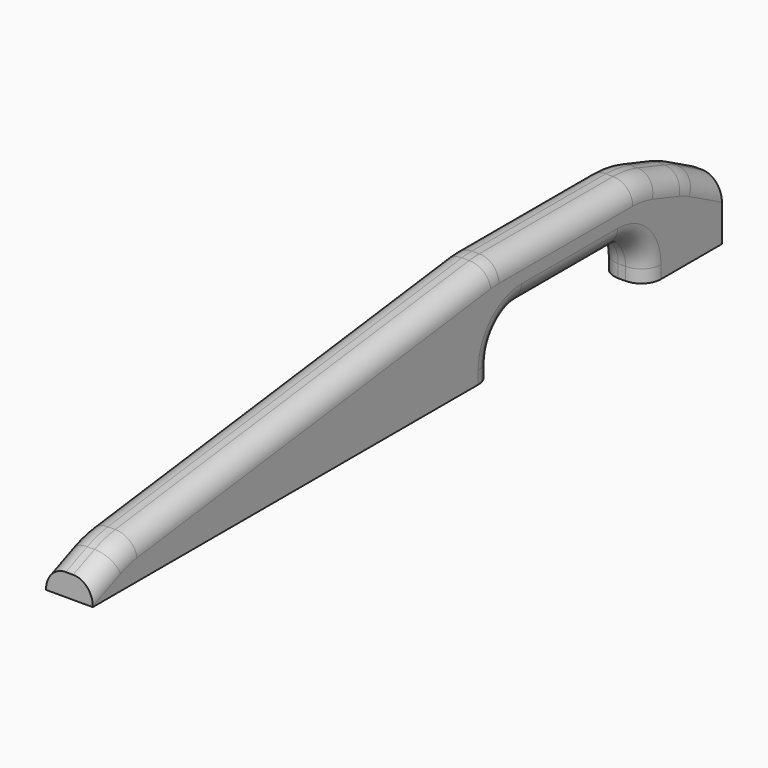
from build123d import *

# Parameters (mm, degrees)
F1_DEPTH      = 15.08125
F1_DEPTH_BACK = 15.08125
F2_R          = 63.5
F3_R          = 22.225
F4_R          = 12.7


with BuildPart() as f1:
    # F0 (on Right) → F1 (new body, two sides)
    with BuildSketch(Plane.YZ) as f1_sk:
        Polygon((0, 14.2875), (0, 0), (323.85, 0), (323.85, 30.48), (446.0875, 30.48), (446.0875, 0), (508, 0), (508, 38.1), (482.6, 51.60542), (446.0875, 63.5), (323.85, 63.5), (25.4, 25.06916), align=None)
    extrude(amount=F1_DEPTH)
    extrude(f1_sk.sketch, amount=-F1_DEPTH_BACK)

    # F2
    f2_edges = [f1.edges().sort_by_distance(p)[0] for p in [
        (0, 25.4, 25.06916),
        (0, 323.85, 63.5),
        (0, 446.0875, 63.5),
        (0, 482.6, 51.60542),
    ]]
    fillet(f2_edges, radius=F2_R)

    # F3
    f3_edges = [f1.edges().sort_by_distance(p)[0] for p in [
        (0, 323.85, 30.48),
        (0, 446.0875, 30.48),
    ]]
    fillet(f3_edges, radius=F3_R)

    # F4
    f4_edges = [f1.edges().sort_by_distance(p)[0] for p in [
        (15.08125, 381.963359, 63.5),
        (-15.08125, 381.963359, 63.5),
        (15.08125, 384.96875, 30.48),
        (-15.08125, 384.96875, 30.48),
    ]]
    fillet(f4_edges, radius=F4_R)


solid = f1.part
